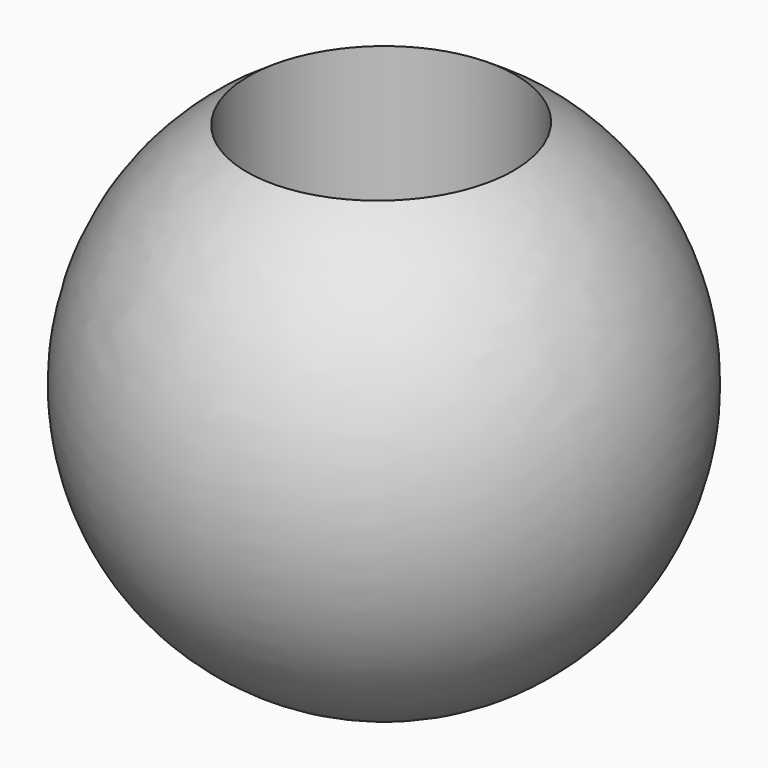
from build123d import *

# Parameters (mm, degrees)
F2_R     = 6.35
F3_DEPTH = 25.4


with BuildPart() as f1:
    # F0 (on Front) → F1 (revolve)
    with BuildSketch(Plane.XZ):
        with BuildLine():
            Line((0.2785772085, -13.2571549409), (0, 12.1397893662))
            ThreePointArc((0, 12.1397893662), (-12.4206588453, -0.6964519243), (0.2785772085, -13.2571549409))
        make_face()
    revolve(axis=Axis((0.1392886043, 0, -0.5586827873), (0.0109682664, 0, -0.9999398468)))

    # F2 (on Top) → F3 (cut)
    with BuildSketch(Plane.XY):
        Circle(F2_R)
    extrude(amount=F3_DEPTH, mode=Mode.SUBTRACT)


solid = f1.part
